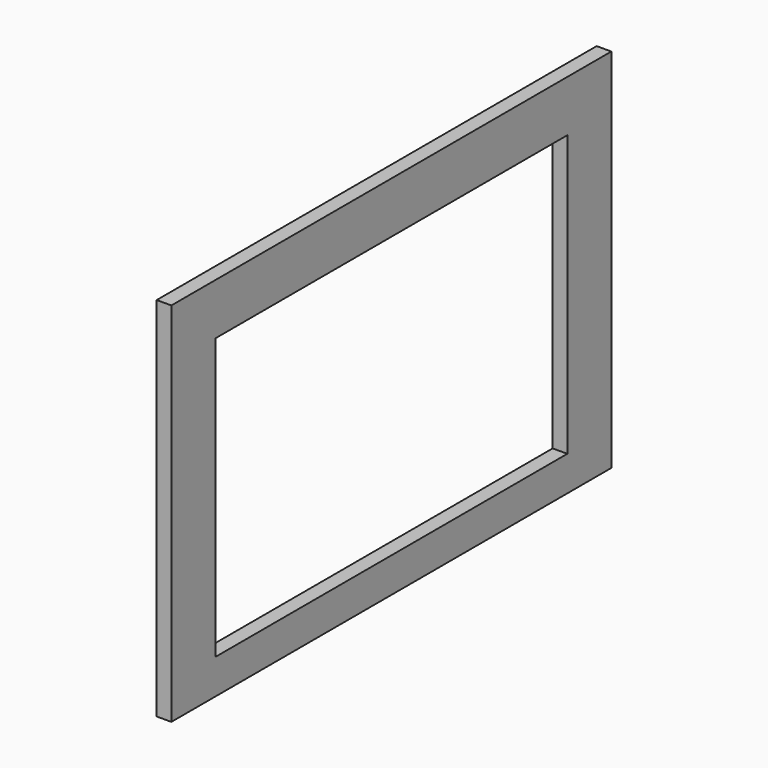
from build123d import *

# Parameters (mm, degrees)
F0_W     = 150
F0_H     = 100
F1_DEPTH = 4


with BuildPart() as f1:
    # F0 (on Right) → F1 (new body)
    with BuildSketch(Plane.YZ):
        Rectangle(F0_W, F0_H)
        Polygon((-60, 36), (0, 36), (60, 36), (60, 0), (60, -40.5), (0, -40.5), (-60, -40.5), (-60, 0), align=None, mode=Mode.SUBTRACT)
    extrude(amount=F1_DEPTH)


solid = f1.part
